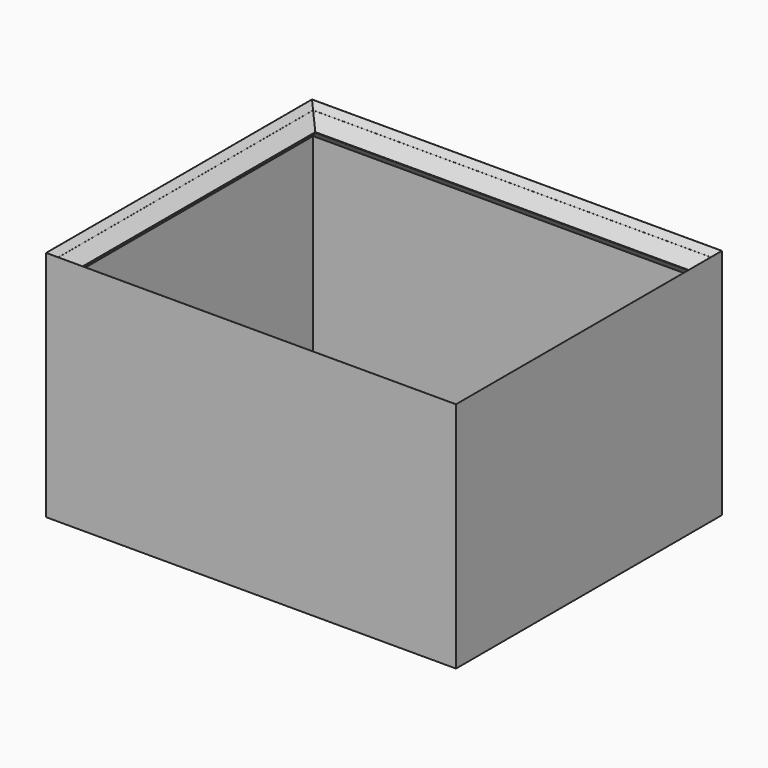
from build123d import *

# Parameters (mm, degrees)
BOX039_W        = 68
BOX039_H        = 54
BOX039_DEPTH    = 4.1
BOX038_W        = 74
BOX038_H        = 60
BOX038_DEPTH    = 4.1
CHAMFER021_SIZE = 2
CHAMFER022_SIZE = 2
BOX033_W        = 72
BOX033_H        = 58
BOX033_DEPTH    = 42
BOX032_W        = 74
BOX032_H        = 60
BOX032_DEPTH    = 42
CHAMFER020_SIZE = 0.99


with BuildPart() as obj1:
    # Box039 → Box039 (new body)
    with BuildSketch(Plane(origin=(3, -57, 0), x_dir=(1, 0, 0), z_dir=(0, 0, 1))):
        with Locations((34, 27)):
            Rectangle(BOX039_W, BOX039_H)
    extrude(amount=BOX039_DEPTH)


with BuildPart() as chamfer022:
    # Box038 → Box038 (new body)
    with BuildSketch(Plane(origin=(0, -60, 0), x_dir=(1, 0, 0), z_dir=(0, 0, 1))):
        with Locations((37, 30)):
            Rectangle(BOX038_W, BOX038_H)
    extrude(amount=BOX038_DEPTH)

    # Cut019: cut obj1
    add(obj1.part, mode=Mode.SUBTRACT)


with BuildPart() as chamfer022_1:
    # Cut019 placement: moved
    add(chamfer022.part.moved(Location((0, 0, 36.9))))

    # Chamfer021
    chamfer021_edges = [chamfer022_1.edges().sort_by_distance(p)[0] for p in [
        (37, -3, 41),
        (3, -30, 41),
        (37, -57, 41),
        (71, -30, 41),
    ]]
    chamfer(chamfer021_edges, length=CHAMFER021_SIZE)

    # Chamfer022
    chamfer022_edges = [chamfer022_1.edges().sort_by_distance(p)[0] for p in [
        (37, -3, 36.9),
        (3, -30, 36.9),
        (71, -30, 36.9),
        (37, -57, 36.9),
    ]]
    chamfer(chamfer022_edges, length=CHAMFER022_SIZE)


with BuildPart() as obj2:
    # Box033 → Box033 (new body)
    with BuildSketch(Plane(origin=(1, -59, 0), x_dir=(1, 0, 0), z_dir=(0, 0, 1))):
        with Locations((36, 29)):
            Rectangle(BOX033_W, BOX033_H)
    extrude(amount=BOX033_DEPTH)


with BuildPart() as form:
    # Box032 → Box032 (new body)
    with BuildSketch(Plane(origin=(0, -60, 0), x_dir=(1, 0, 0), z_dir=(0, 0, 1))):
        with Locations((37, 30)):
            Rectangle(BOX032_W, BOX032_H)
    extrude(amount=BOX032_DEPTH)

    # Cut014: cut obj2
    add(obj2.part, mode=Mode.SUBTRACT)

    # Chamfer020
    chamfer020_edges = [form.edges().sort_by_distance(p)[0] for p in [
        (37, -1, 42),
        (1, -30, 42),
        (37, -59, 42),
        (73, -30, 42),
    ]]
    chamfer(chamfer020_edges, length=CHAMFER020_SIZE)

    # Fusion: union Chamfer022
    add(chamfer022_1.part)


solid = form.part
